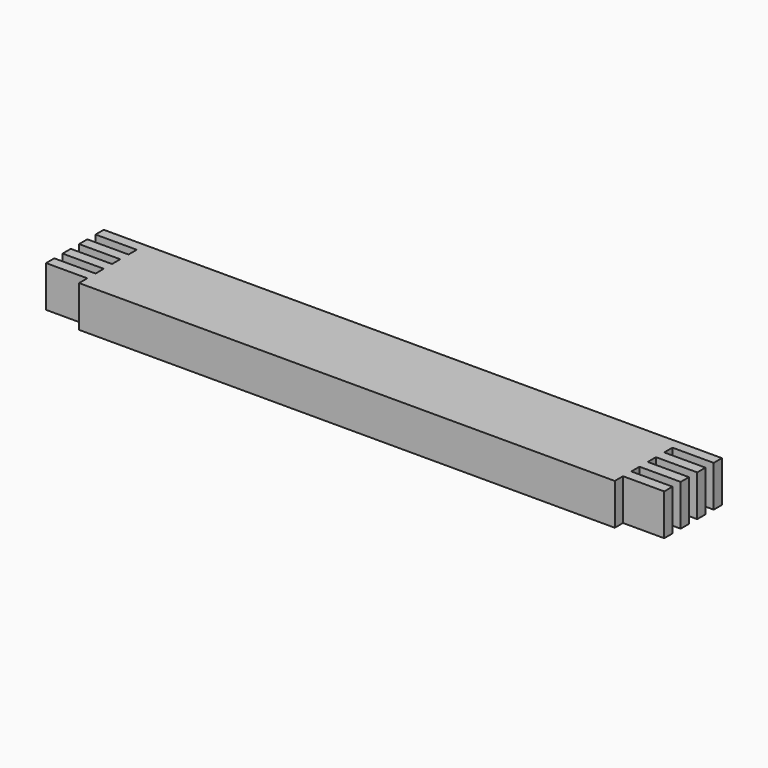
from build123d import *

# Parameters (mm, degrees)
F1_DEPTH = 20


with BuildPart() as f1:
    # F0 (on Top) → F1 (new body, symmetric)
    with BuildSketch(Plane.XY):
        Polygon((-260, -30), (-260, -40), (260, -40), (260, -30), (300, -30), (300, -20), (260, -20), (260, -10), (300, -10), (300, 0), (260, 0), (260, 10), (300, 10), (300, 20), (260, 20), (260, 30), (300, 30), (300, 40), (-300, 40), (-300, 30), (-260, 30), (-260, 20), (-300, 20), (-300, 10), (-260, 10), (-260, 0), (-300, 0), (-300, -10), (-260, -10), (-260, -20), (-300, -20), (-300, -30), align=None)
    extrude(amount=F1_DEPTH, both=True)


solid = f1.part
